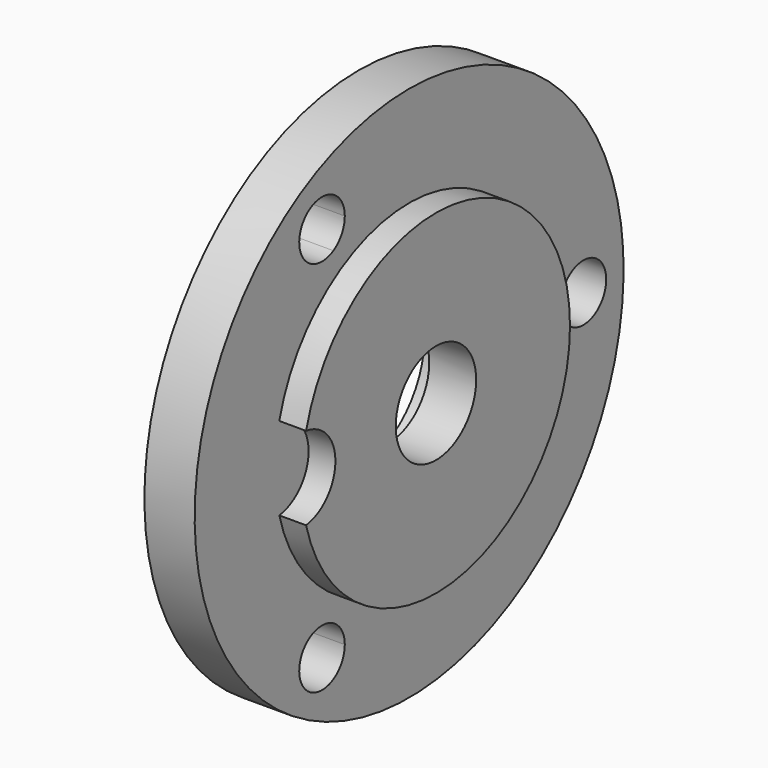
from build123d import *

# Parameters (mm, degrees)
F5_DEPTH = 1.501
F6_R     = 1.25
F7_DEPTH = 0.8


with BuildPart() as f1:
    # F0 (on Front) → F1 (revolve)
    with BuildSketch(Plane.XZ):
        Polygon((0, 8), (0, 0), (2.3, 0), (2.3, 5), (1.5, 5), (1.5, 8), align=None)
    revolve(axis=Axis((1.15, 0, 0), (1, 0, 0)))

    # F2 (on Front) → F3 (revolve, cut)
    with BuildSketch(Plane.XZ):
        Polygon((0, 2.45), (0, 0), (2.3, 0), (2.3, 1.5), (0.9, 1.5), (0.9, 2.45), align=None)
    revolve(axis=Axis((1.15, 0, 0), (-1, 0, 0)), mode=Mode.SUBTRACT)

    # F4 (on face) → F5 (cut, through all)
    with BuildSketch(Plane.YZ.offset(1.5)):
        with BuildLine():
            ThreePointArc((7.35, 0), (6.5, 0.85), (5.65, 0))
            ThreePointArc((5.65, 0), (6.5, -0.85), (7.35, 0))
        make_face()
        with BuildLine():
            ThreePointArc((-2.4, -5.629165), (-2.513878, -5.204165), (-2.825, -4.893044))
            ThreePointArc((-2.825, -4.893044), (-3.986122, -6.054165), (-2.4, -5.629165))
        make_face()
        with BuildLine():
            ThreePointArc((-2.4, 5.629165), (-3.986122, 6.054165), (-2.825, 4.893044))
            ThreePointArc((-2.825, 4.893044), (-2.513878, 5.204165), (-2.4, 5.629165))
        make_face()
    extrude(amount=-F5_DEPTH, mode=Mode.SUBTRACT)

    # F6 (on face) → F7 (cut, through all)
    with BuildSketch(Plane.YZ.offset(2.3)):
        with Locations((-5, 0)):
            Circle(F6_R)
    extrude(amount=-F7_DEPTH, mode=Mode.SUBTRACT)


solid = f1.part
